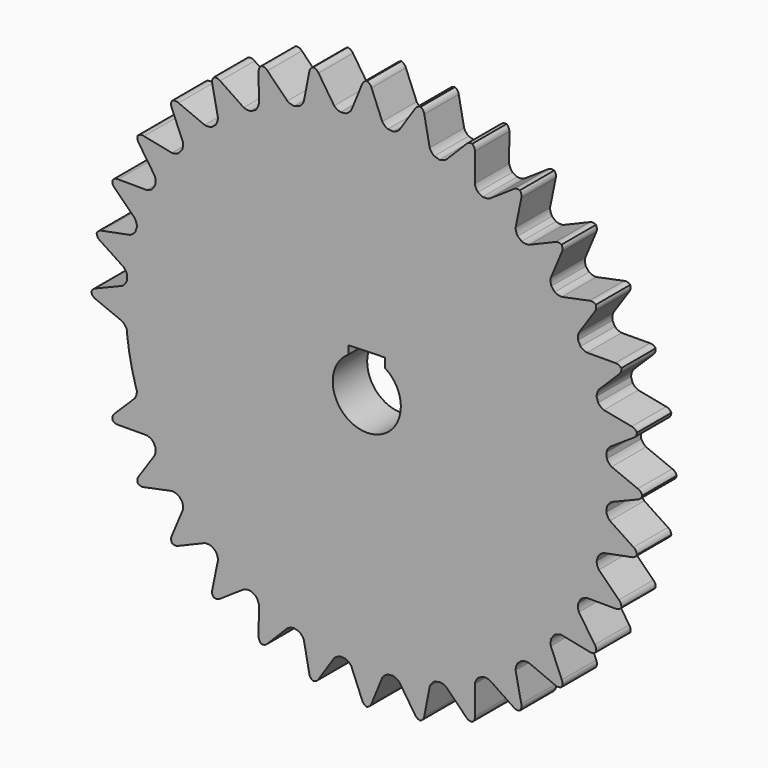
from build123d import *

# Parameters (mm, degrees)
F1_DEPTH = 25
F3_DEPTH = 25


with BuildPart() as f1:
    # F0 (on Front) → F1 (new body)
    with BuildSketch(Plane.XZ):
        with BuildLine():
            ThreePointArc((15.241362, 139.167887), (13.7224, 139.325862), (12.201804, 139.467258))
            ThreePointArc((12.201804, 139.467258), (0, 140), (-12.201804, 139.467258))
            ThreePointArc((-12.201804, 139.467258), (-13.7224, 139.325862), (-15.241362, 139.167887))
            ThreePointArc((-15.241362, 139.167887), (-17.22437, 139.942358), (-18.926763, 141.220633))
            Line((-18.926763, 141.220633), (-28.013776, 154.950709))
            ThreePointArc((-28.013776, 154.950709), (-29.359509, 156.350802), (-31.214452, 156.925645))
            ThreePointArc((-31.214452, 156.925645), (-32.708212, 155.684703), (-33.415715, 153.876196))
            Line((-33.415715, 153.876196), (-36.556748, 137.713811))
            ThreePointArc((-36.556748, 137.713811), (-37.640379, 135.881362), (-39.176062, 134.40698))
            ThreePointArc((-39.176062, 134.40698), (-40.639855, 133.971647), (-42.098812, 133.520373))
            ThreePointArc((-42.098812, 133.520373), (-53.575681, 129.343135), (-64.644806, 124.181517))
            ThreePointArc((-64.644806, 124.181517), (-65.995543, 123.468977), (-67.338428, 122.741746))
            ThreePointArc((-67.338428, 122.741746), (-77.779833, 116.405746), (-87.629286, 109.183828))
            ThreePointArc((-87.629286, 109.183828), (-88.81506, 108.221463), (-89.990265, 107.246222))
            ThreePointArc((-89.990265, 107.246222), (-98.994949, 98.994949), (-107.246222, 89.990265))
            ThreePointArc((-107.246222, 89.990265), (-108.221463, 88.81506), (-109.183828, 87.629286))
            ThreePointArc((-109.183828, 87.629286), (-116.405746, 77.779833), (-122.741746, 67.338428))
            ThreePointArc((-122.741746, 67.338428), (-123.468977, 65.995543), (-124.181517, 64.644806))
            ThreePointArc((-124.181517, 64.644806), (-129.343135, 53.575681), (-133.520373, 42.098812))
            ThreePointArc((-133.520373, 42.098812), (-133.971647, 40.639855), (-134.40698, 39.176062))
            ThreePointArc((-134.40698, 39.176062), (-137.309939, 27.312645), (-139.167887, 15.241362))
            ThreePointArc((-139.167887, 15.241362), (-139.325862, 13.7224), (-139.467258, 12.201804))
            ThreePointArc((-139.467258, 12.201804), (-140, 0), (-139.467258, -12.201804))
            ThreePointArc((-139.467258, -12.201804), (-139.325862, -13.7224), (-139.167887, -15.241362))
            ThreePointArc((-139.167887, -15.241362), (-137.309939, -27.312645), (-134.40698, -39.176062))
            ThreePointArc((-134.40698, -39.176062), (-133.971647, -40.639855), (-133.520373, -42.098812))
            ThreePointArc((-133.520373, -42.098812), (-129.343135, -53.575681), (-124.181517, -64.644806))
            ThreePointArc((-124.181517, -64.644806), (-123.468977, -65.995543), (-122.741746, -67.338428))
            ThreePointArc((-122.741746, -67.338428), (-116.405746, -77.779833), (-109.183828, -87.629286))
            ThreePointArc((-109.183828, -87.629286), (-108.221463, -88.81506), (-107.246222, -89.990265))
            ThreePointArc((-107.246222, -89.990265), (-98.994949, -98.994949), (-89.990265, -107.246222))
            ThreePointArc((-89.990265, -107.246222), (-88.81506, -108.221463), (-87.629286, -109.183828))
            ThreePointArc((-87.629286, -109.183828), (-77.779833, -116.405746), (-67.338428, -122.741746))
            ThreePointArc((-67.338428, -122.741746), (-65.995543, -123.468977), (-64.644806, -124.181517))
            ThreePointArc((-64.644806, -124.181517), (-53.575681, -129.343135), (-42.098812, -133.520373))
            ThreePointArc((-42.098812, -133.520373), (-40.639855, -133.971647), (-39.176062, -134.40698))
            ThreePointArc((-39.176062, -134.40698), (-27.312645, -137.309939), (-15.241362, -139.167887))
            ThreePointArc((-15.241362, -139.167887), (-13.7224, -139.325862), (-12.201804, -139.467258))
            ThreePointArc((-12.201804, -139.467258), (0, -140), (12.201804, -139.467258))
            ThreePointArc((12.201804, -139.467258), (13.7224, -139.325862), (15.241362, -139.167887))
            ThreePointArc((15.241362, -139.167887), (27.312645, -137.309939), (39.176062, -134.40698))
            ThreePointArc((39.176062, -134.40698), (40.639855, -133.971647), (42.098812, -133.520373))
            ThreePointArc((42.098812, -133.520373), (53.575681, -129.343135), (64.644806, -124.181517))
            ThreePointArc((64.644806, -124.181517), (65.995543, -123.468977), (67.338428, -122.741746))
            ThreePointArc((67.338428, -122.741746), (77.779833, -116.405746), (87.629286, -109.183828))
            ThreePointArc((87.629286, -109.183828), (88.81506, -108.221463), (89.990265, -107.246222))
            ThreePointArc((89.990265, -107.246222), (98.994949, -98.994949), (107.246222, -89.990265))
            ThreePointArc((107.246222, -89.990265), (108.221463, -88.81506), (109.183828, -87.629286))
            ThreePointArc((109.183828, -87.629286), (116.405746, -77.779833), (122.741746, -67.338428))
            ThreePointArc((122.741746, -67.338428), (123.468977, -65.995543), (124.181517, -64.644806))
            ThreePointArc((124.181517, -64.644806), (129.343135, -53.575681), (133.520373, -42.098812))
            ThreePointArc((133.520373, -42.098812), (133.971647, -40.639855), (134.40698, -39.176062))
            ThreePointArc((134.40698, -39.176062), (137.309939, -27.312645), (139.167887, -15.241362))
            ThreePointArc((139.167887, -15.241362), (139.325862, -13.7224), (139.467258, -12.201804))
            ThreePointArc((139.467258, -12.201804), (140, 0), (139.467258, 12.201804))
            ThreePointArc((139.467258, 12.201804), (139.325862, 13.7224), (139.167887, 15.241362))
            ThreePointArc((139.167887, 15.241362), (137.309939, 27.312645), (134.40698, 39.176062))
            ThreePointArc((134.40698, 39.176062), (133.971647, 40.639855), (133.520373, 42.098812))
            ThreePointArc((133.520373, 42.098812), (129.343135, 53.575681), (124.181517, 64.644806))
            ThreePointArc((124.181517, 64.644806), (123.468977, 65.995543), (122.741746, 67.338428))
            ThreePointArc((122.741746, 67.338428), (116.405746, 77.779833), (109.183828, 87.629286))
            ThreePointArc((109.183828, 87.629286), (108.221463, 88.81506), (107.246222, 89.990265))
            ThreePointArc((107.246222, 89.990265), (98.994949, 98.994949), (89.990265, 107.246222))
            ThreePointArc((89.990265, 107.246222), (88.81506, 108.221463), (87.629286, 109.183828))
            ThreePointArc((87.629286, 109.183828), (77.779833, 116.405746), (67.338428, 122.741746))
            ThreePointArc((67.338428, 122.741746), (65.995543, 123.468977), (64.644806, 124.181517))
            ThreePointArc((64.644806, 124.181517), (53.575681, 129.343135), (42.098812, 133.520373))
            ThreePointArc((42.098812, 133.520373), (40.639855, 133.971647), (39.176062, 134.40698))
            ThreePointArc((39.176062, 134.40698), (37.640379, 135.881362), (36.556748, 137.713811))
            Line((36.556748, 137.713811), (33.415715, 153.876196))
            ThreePointArc((33.415715, 153.876196), (32.708212, 155.684703), (31.214452, 156.925645))
            ThreePointArc((31.214452, 156.925645), (29.359509, 156.350802), (28.013776, 154.950709))
            Line((28.013776, 154.950709), (18.926763, 141.220633))
            ThreePointArc((18.926763, 141.220633), (17.22437, 139.942358), (15.241362, 139.167887))
        make_face()
        with BuildLine():
            ThreePointArc((-12.201804, 139.467258), (0, 140), (12.201804, 139.467258))
            ThreePointArc((12.201804, 139.467258), (10.407991, 140.613713), (8.987688, 142.199546))
            Line((8.987688, 142.199546), (2.753885, 157.438591))
            ThreePointArc((2.753885, 157.438591), (1.707154, 159.074321), (0, 160))
            ThreePointArc((0, 160), (-1.707154, 159.074321), (-2.753885, 157.438591))
            Line((-2.753885, 157.438591), (-8.987688, 142.199546))
            ThreePointArc((-8.987688, 142.199546), (-10.407991, 140.613713), (-12.201804, 139.467258))
        make_face()
        with BuildLine():
            ThreePointArc((46.113869, 134.81469), (44.194809, 133.893097), (42.098812, 133.520373))
            ThreePointArc((42.098812, 133.520373), (53.575681, 129.343135), (64.644806, 124.181517))
            ThreePointArc((64.644806, 124.181517), (63.426268, 125.927166), (62.720952, 127.935811))
            Line((62.720952, 127.935811), (62.793398, 144.400426))
            ThreePointArc((62.793398, 144.400426), (62.452312, 146.31221), (61.229349, 147.820725))
            ThreePointArc((61.229349, 147.820725), (59.297902, 147.618809), (57.704882, 146.508158))
            Line((57.704882, 146.508158), (46.113869, 134.81469))
        make_face()
        with BuildLine():
            ThreePointArc((-64.644806, 124.181517), (-53.575681, 129.343135), (-42.098812, 133.520373))
            ThreePointArc((-42.098812, 133.520373), (-44.194809, 133.893097), (-46.113869, 134.81469))
            Line((-46.113869, 134.81469), (-57.704882, 146.508158))
            ThreePointArc((-57.704882, 146.508158), (-59.297902, 147.618809), (-61.229349, 147.820725))
            ThreePointArc((-61.229349, 147.820725), (-62.452312, 146.31221), (-62.793398, 144.400426))
            Line((-62.793398, 144.400426), (-62.720952, 127.935811))
            ThreePointArc((-62.720952, 127.935811), (-63.426268, 125.927166), (-64.644806, 124.181517))
        make_face()
        with BuildLine():
            ThreePointArc((71.528845, 123.227894), (69.466865, 122.6984), (67.338428, 122.741746))
            ThreePointArc((67.338428, 122.741746), (77.779833, 116.405746), (87.629286, 109.183828))
            ThreePointArc((87.629286, 109.183828), (86.774722, 111.13366), (86.474825, 113.241309))
            Line((86.474825, 113.241309), (89.757966, 129.375428))
            ThreePointArc((89.757966, 129.375428), (89.796405, 131.31702), (88.891237, 133.035138))
            ThreePointArc((88.891237, 133.035138), (86.957511, 133.213908), (85.178423, 132.435381))
            Line((85.178423, 132.435381), (71.528845, 123.227894))
        make_face()
        with BuildLine():
            ThreePointArc((-87.629286, 109.183828), (-77.779833, 116.405746), (-67.338428, 122.741746))
            ThreePointArc((-67.338428, 122.741746), (-69.466865, 122.6984), (-71.528845, 123.227894))
            Line((-71.528845, 123.227894), (-85.178423, 132.435381))
            ThreePointArc((-85.178423, 132.435381), (-86.957511, 133.213908), (-88.891237, 133.035138))
            ThreePointArc((-88.891237, 133.035138), (-89.796405, 131.31702), (-89.757966, 129.375428))
            Line((-89.757966, 129.375428), (-86.474825, 113.241309))
            ThreePointArc((-86.474825, 113.241309), (-86.774722, 111.13366), (-87.629286, 109.183828))
        make_face()
        with BuildLine():
            ThreePointArc((94.195008, 106.905519), (92.069349, 106.788471), (89.990265, 107.246222))
            ThreePointArc((89.990265, 107.246222), (98.994949, 98.994949), (107.246222, 89.990265))
            ThreePointArc((107.246222, 89.990265), (106.788471, 92.069349), (106.905519, 94.195008))
            Line((106.905519, 94.195008), (113.273186, 109.378605))
            ThreePointArc((113.273186, 109.378605), (113.689672, 111.275391), (113.137085, 113.137085))
            ThreePointArc((113.137085, 113.137085), (111.275391, 113.689672), (109.378605, 113.273186))
            Line((109.378605, 113.273186), (94.195008, 106.905519))
        make_face()
        with BuildLine():
            ThreePointArc((-107.246222, 89.990265), (-98.994949, 98.994949), (-89.990265, 107.246222))
            ThreePointArc((-89.990265, 107.246222), (-92.069349, 106.788471), (-94.195008, 106.905519))
            Line((-94.195008, 106.905519), (-109.378605, 113.273186))
            ThreePointArc((-109.378605, 113.273186), (-111.275391, 113.689672), (-113.137085, 113.137085))
            ThreePointArc((-113.137085, 113.137085), (-113.689672, 111.275391), (-113.273186, 109.378605))
            Line((-113.273186, 109.378605), (-106.905519, 94.195008))
            ThreePointArc((-106.905519, 94.195008), (-106.788471, 92.069349), (-107.246222, 89.990265))
        make_face()
        with BuildLine():
            ThreePointArc((113.241309, 86.474825), (111.13366, 86.774722), (109.183828, 87.629286))
            ThreePointArc((109.183828, 87.629286), (116.405746, 77.779833), (122.741746, 67.338428))
            ThreePointArc((122.741746, 67.338428), (122.6984, 69.466865), (123.227894, 71.528845))
            Line((123.227894, 71.528845), (132.435381, 85.178423))
            ThreePointArc((132.435381, 85.178423), (133.213908, 86.957511), (133.035138, 88.891237))
            ThreePointArc((133.035138, 88.891237), (131.31702, 89.796405), (129.375428, 89.757966))
            Line((129.375428, 89.757966), (113.241309, 86.474825))
        make_face()
        with BuildLine():
            ThreePointArc((-122.741746, 67.338428), (-116.405746, 77.779833), (-109.183828, 87.629286))
            ThreePointArc((-109.183828, 87.629286), (-111.13366, 86.774722), (-113.241309, 86.474825))
            Line((-113.241309, 86.474825), (-129.375428, 89.757966))
            ThreePointArc((-129.375428, 89.757966), (-131.31702, 89.796405), (-133.035138, 88.891237))
            ThreePointArc((-133.035138, 88.891237), (-133.213908, 86.957511), (-132.435381, 85.178423))
            Line((-132.435381, 85.178423), (-123.227894, 71.528845))
            ThreePointArc((-123.227894, 71.528845), (-122.6984, 69.466865), (-122.741746, 67.338428))
        make_face()
        with BuildLine():
            ThreePointArc((127.935811, 62.720952), (125.927166, 63.426268), (124.181517, 64.644806))
            ThreePointArc((124.181517, 64.644806), (129.343135, 53.575681), (133.520373, 42.098812))
            ThreePointArc((133.520373, 42.098812), (133.893097, 44.194809), (134.81469, 46.113869))
            Line((134.81469, 46.113869), (146.508158, 57.704882))
            ThreePointArc((146.508158, 57.704882), (147.618809, 59.297902), (147.820725, 61.229349))
            ThreePointArc((147.820725, 61.229349), (146.31221, 62.452312), (144.400426, 62.793398))
            Line((144.400426, 62.793398), (127.935811, 62.720952))
        make_face()
        with BuildLine():
            ThreePointArc((-133.520373, 42.098812), (-129.343135, 53.575681), (-124.181517, 64.644806))
            ThreePointArc((-124.181517, 64.644806), (-125.927166, 63.426268), (-127.935811, 62.720952))
            Line((-127.935811, 62.720952), (-144.400426, 62.793398))
            ThreePointArc((-144.400426, 62.793398), (-146.31221, 62.452312), (-147.820725, 61.229349))
            ThreePointArc((-147.820725, 61.229349), (-147.618809, 59.297902), (-146.508158, 57.704882))
            Line((-146.508158, 57.704882), (-134.81469, 46.113869))
            ThreePointArc((-134.81469, 46.113869), (-133.893097, 44.194809), (-133.520373, 42.098812))
        make_face()
        with BuildLine():
            ThreePointArc((137.713811, 36.556748), (135.881362, 37.640379), (134.40698, 39.176062))
            ThreePointArc((134.40698, 39.176062), (137.309939, 27.312645), (139.167887, 15.241362))
            ThreePointArc((139.167887, 15.241362), (139.942358, 17.22437), (141.220633, 18.926763))
            Line((141.220633, 18.926763), (154.950709, 28.013776))
            ThreePointArc((154.950709, 28.013776), (156.350802, 29.359509), (156.925645, 31.214452))
            ThreePointArc((156.925645, 31.214452), (155.684703, 32.708212), (153.876196, 33.415715))
            Line((153.876196, 33.415715), (137.713811, 36.556748))
        make_face()
        with BuildLine():
            ThreePointArc((-139.167887, 15.241362), (-137.309939, 27.312645), (-134.40698, 39.176062))
            ThreePointArc((-134.40698, 39.176062), (-135.881362, 37.640379), (-137.713811, 36.556748))
            Line((-137.713811, 36.556748), (-153.876196, 33.415715))
            ThreePointArc((-153.876196, 33.415715), (-155.684703, 32.708212), (-156.925645, 31.214452))
            ThreePointArc((-156.925645, 31.214452), (-156.350802, 29.359509), (-154.950709, 28.013776))
            Line((-154.950709, 28.013776), (-141.220633, 18.926763))
            ThreePointArc((-141.220633, 18.926763), (-139.942358, 17.22437), (-139.167887, 15.241362))
        make_face()
        with BuildLine():
            ThreePointArc((142.199546, 8.987688), (140.613713, 10.407991), (139.467258, 12.201804))
            ThreePointArc((139.467258, 12.201804), (140, 0), (139.467258, -12.201804))
            ThreePointArc((139.467258, -12.201804), (140.613713, -10.407991), (142.199546, -8.987688))
            Line((142.199546, -8.987688), (157.438591, -2.753885))
            ThreePointArc((157.438591, -2.753885), (159.074321, -1.707154), (160, 0))
            ThreePointArc((160, 0), (159.074321, 1.707154), (157.438591, 2.753885))
            Line((157.438591, 2.753885), (142.199546, 8.987688))
        make_face()
        with BuildLine():
            ThreePointArc((-139.467258, -12.201804), (-140, 0), (-139.467258, 12.201804))
            ThreePointArc((-139.467258, 12.201804), (-140.613713, 10.407991), (-142.199546, 8.987688))
            Line((-142.199546, 8.987688), (-157.438591, 2.753885))
            ThreePointArc((-157.438591, 2.753885), (-159.074321, 1.707154), (-160, 0))
            ThreePointArc((-160, 0), (-159.074321, -1.707154), (-157.438591, -2.753885))
            Line((-157.438591, -2.753885), (-142.199546, -8.987688))
            ThreePointArc((-142.199546, -8.987688), (-140.613713, -10.407991), (-139.467258, -12.201804))
        make_face()
        with BuildLine():
            ThreePointArc((141.220633, -18.926763), (139.942358, -17.22437), (139.167887, -15.241362))
            ThreePointArc((139.167887, -15.241362), (137.309939, -27.312645), (134.40698, -39.176062))
            ThreePointArc((134.40698, -39.176062), (135.881362, -37.640379), (137.713811, -36.556748))
            Line((137.713811, -36.556748), (153.876196, -33.415715))
            ThreePointArc((153.876196, -33.415715), (155.684703, -32.708212), (156.925645, -31.214452))
            ThreePointArc((156.925645, -31.214452), (156.350802, -29.359509), (154.950709, -28.013776))
            Line((154.950709, -28.013776), (141.220633, -18.926763))
        make_face()
        with BuildLine():
            ThreePointArc((134.81469, -46.113869), (133.893097, -44.194809), (133.520373, -42.098812))
            ThreePointArc((133.520373, -42.098812), (129.343135, -53.575681), (124.181517, -64.644806))
            ThreePointArc((124.181517, -64.644806), (125.927166, -63.426268), (127.935811, -62.720952))
            Line((127.935811, -62.720952), (144.400426, -62.793398))
            ThreePointArc((144.400426, -62.793398), (146.31221, -62.452312), (147.820725, -61.229349))
            ThreePointArc((147.820725, -61.229349), (147.618809, -59.297902), (146.508158, -57.704882))
            Line((146.508158, -57.704882), (134.81469, -46.113869))
        make_face()
        with BuildLine():
            ThreePointArc((-124.181517, -64.644806), (-129.343135, -53.575681), (-133.520373, -42.098812))
            ThreePointArc((-133.520373, -42.098812), (-133.893097, -44.194809), (-134.81469, -46.113869))
            Line((-134.81469, -46.113869), (-146.508158, -57.704882))
            ThreePointArc((-146.508158, -57.704882), (-147.618809, -59.297902), (-147.820725, -61.229349))
            ThreePointArc((-147.820725, -61.229349), (-146.31221, -62.452312), (-144.400426, -62.793398))
            Line((-144.400426, -62.793398), (-127.935811, -62.720952))
            ThreePointArc((-127.935811, -62.720952), (-125.927166, -63.426268), (-124.181517, -64.644806))
        make_face()
        with BuildLine():
            ThreePointArc((123.227894, -71.528845), (122.6984, -69.466865), (122.741746, -67.338428))
            ThreePointArc((122.741746, -67.338428), (116.405746, -77.779833), (109.183828, -87.629286))
            ThreePointArc((109.183828, -87.629286), (111.13366, -86.774722), (113.241309, -86.474825))
            Line((113.241309, -86.474825), (129.375428, -89.757966))
            ThreePointArc((129.375428, -89.757966), (131.31702, -89.796405), (133.035138, -88.891237))
            ThreePointArc((133.035138, -88.891237), (133.213908, -86.957511), (132.435381, -85.178423))
            Line((132.435381, -85.178423), (123.227894, -71.528845))
        make_face()
        with BuildLine():
            ThreePointArc((-109.183828, -87.629286), (-116.405746, -77.779833), (-122.741746, -67.338428))
            ThreePointArc((-122.741746, -67.338428), (-122.6984, -69.466865), (-123.227894, -71.528845))
            Line((-123.227894, -71.528845), (-132.435381, -85.178423))
            ThreePointArc((-132.435381, -85.178423), (-133.213908, -86.957511), (-133.035138, -88.891237))
            ThreePointArc((-133.035138, -88.891237), (-131.31702, -89.796405), (-129.375428, -89.757966))
            Line((-129.375428, -89.757966), (-113.241309, -86.474825))
            ThreePointArc((-113.241309, -86.474825), (-111.13366, -86.774722), (-109.183828, -87.629286))
        make_face()
        with BuildLine():
            ThreePointArc((106.905519, -94.195008), (106.788471, -92.069349), (107.246222, -89.990265))
            ThreePointArc((107.246222, -89.990265), (98.994949, -98.994949), (89.990265, -107.246222))
            ThreePointArc((89.990265, -107.246222), (92.069349, -106.788471), (94.195008, -106.905519))
            Line((94.195008, -106.905519), (109.378605, -113.273186))
            ThreePointArc((109.378605, -113.273186), (111.275391, -113.689672), (113.137085, -113.137085))
            ThreePointArc((113.137085, -113.137085), (113.689672, -111.275391), (113.273186, -109.378605))
            Line((113.273186, -109.378605), (106.905519, -94.195008))
        make_face()
        with BuildLine():
            ThreePointArc((-89.990265, -107.246222), (-98.994949, -98.994949), (-107.246222, -89.990265))
            ThreePointArc((-107.246222, -89.990265), (-106.788471, -92.069349), (-106.905519, -94.195008))
            Line((-106.905519, -94.195008), (-113.273186, -109.378605))
            ThreePointArc((-113.273186, -109.378605), (-113.689672, -111.275391), (-113.137085, -113.137085))
            ThreePointArc((-113.137085, -113.137085), (-111.275391, -113.689672), (-109.378605, -113.273186))
            Line((-109.378605, -113.273186), (-94.195008, -106.905519))
            ThreePointArc((-94.195008, -106.905519), (-92.069349, -106.788471), (-89.990265, -107.246222))
        make_face()
        with BuildLine():
            ThreePointArc((86.474825, -113.241309), (86.774722, -111.13366), (87.629286, -109.183828))
            ThreePointArc((87.629286, -109.183828), (77.779833, -116.405746), (67.338428, -122.741746))
            ThreePointArc((67.338428, -122.741746), (69.466865, -122.6984), (71.528845, -123.227894))
            Line((71.528845, -123.227894), (85.178423, -132.435381))
            ThreePointArc((85.178423, -132.435381), (86.957511, -133.213908), (88.891237, -133.035138))
            ThreePointArc((88.891237, -133.035138), (89.796405, -131.31702), (89.757966, -129.375428))
            Line((89.757966, -129.375428), (86.474825, -113.241309))
        make_face()
        with BuildLine():
            ThreePointArc((-67.338428, -122.741746), (-77.779833, -116.405746), (-87.629286, -109.183828))
            ThreePointArc((-87.629286, -109.183828), (-86.774722, -111.13366), (-86.474825, -113.241309))
            Line((-86.474825, -113.241309), (-89.757966, -129.375428))
            ThreePointArc((-89.757966, -129.375428), (-89.796405, -131.31702), (-88.891237, -133.035138))
            ThreePointArc((-88.891237, -133.035138), (-86.957511, -133.213908), (-85.178423, -132.435381))
            Line((-85.178423, -132.435381), (-71.528845, -123.227894))
            ThreePointArc((-71.528845, -123.227894), (-69.466865, -122.6984), (-67.338428, -122.741746))
        make_face()
        with BuildLine():
            ThreePointArc((62.720952, -127.935811), (63.426268, -125.927166), (64.644806, -124.181517))
            ThreePointArc((64.644806, -124.181517), (53.575681, -129.343135), (42.098812, -133.520373))
            ThreePointArc((42.098812, -133.520373), (44.194809, -133.893097), (46.113869, -134.81469))
            Line((46.113869, -134.81469), (57.704882, -146.508158))
            ThreePointArc((57.704882, -146.508158), (59.297902, -147.618809), (61.229349, -147.820725))
            ThreePointArc((61.229349, -147.820725), (62.452312, -146.31221), (62.793398, -144.400426))
            Line((62.793398, -144.400426), (62.720952, -127.935811))
        make_face()
        with BuildLine():
            ThreePointArc((-42.098812, -133.520373), (-53.575681, -129.343135), (-64.644806, -124.181517))
            ThreePointArc((-64.644806, -124.181517), (-63.426268, -125.927166), (-62.720952, -127.935811))
            Line((-62.720952, -127.935811), (-62.793398, -144.400426))
            ThreePointArc((-62.793398, -144.400426), (-62.452312, -146.31221), (-61.229349, -147.820725))
            ThreePointArc((-61.229349, -147.820725), (-59.297902, -147.618809), (-57.704882, -146.508158))
            Line((-57.704882, -146.508158), (-46.113869, -134.81469))
            ThreePointArc((-46.113869, -134.81469), (-44.194809, -133.893097), (-42.098812, -133.520373))
        make_face()
        with BuildLine():
            ThreePointArc((36.556748, -137.713811), (37.640379, -135.881362), (39.176062, -134.40698))
            ThreePointArc((39.176062, -134.40698), (27.312645, -137.309939), (15.241362, -139.167887))
            ThreePointArc((15.241362, -139.167887), (17.22437, -139.942358), (18.926763, -141.220633))
            Line((18.926763, -141.220633), (28.013776, -154.950709))
            ThreePointArc((28.013776, -154.950709), (29.359509, -156.350802), (31.214452, -156.925645))
            ThreePointArc((31.214452, -156.925645), (32.708212, -155.684703), (33.415715, -153.876196))
            Line((33.415715, -153.876196), (36.556748, -137.713811))
        make_face()
        with BuildLine():
            ThreePointArc((-15.241362, -139.167887), (-27.312645, -137.309939), (-39.176062, -134.40698))
            ThreePointArc((-39.176062, -134.40698), (-37.640379, -135.881362), (-36.556748, -137.713811))
            Line((-36.556748, -137.713811), (-33.415715, -153.876196))
            ThreePointArc((-33.415715, -153.876196), (-32.708212, -155.684703), (-31.214452, -156.925645))
            ThreePointArc((-31.214452, -156.925645), (-29.359509, -156.350802), (-28.013776, -154.950709))
            Line((-28.013776, -154.950709), (-18.926763, -141.220633))
            ThreePointArc((-18.926763, -141.220633), (-17.22437, -139.942358), (-15.241362, -139.167887))
        make_face()
        with BuildLine():
            ThreePointArc((8.987688, -142.199546), (10.407991, -140.613713), (12.201804, -139.467258))
            ThreePointArc((12.201804, -139.467258), (0, -140), (-12.201804, -139.467258))
            ThreePointArc((-12.201804, -139.467258), (-10.407991, -140.613713), (-8.987688, -142.199546))
            Line((-8.987688, -142.199546), (-2.753885, -157.438591))
            ThreePointArc((-2.753885, -157.438591), (-1.707154, -159.074321), (0, -160))
            ThreePointArc((0, -160), (1.707154, -159.074321), (2.753885, -157.438591))
            Line((2.753885, -157.438591), (8.987688, -142.199546))
        make_face()
    extrude(amount=F1_DEPTH)

    # F2 (on face) → F3 (cut)
    with BuildSketch(Plane(origin=(0, 0, 0), x_dir=(-1, 0, 0), z_dir=(0, 1, 0))):
        with BuildLine():
            Line((-10.695853, 22.077888), (-10.695853, 16.637318))
            ThreePointArc((-10.695853, 16.637318), (0, -19.778818), (10.695853, 16.637318))
            Line((10.695853, 16.637318), (10.695853, 21.400481))
            Line((10.695853, 21.400481), (-10.695853, 22.077888))
        make_face()
    extrude(amount=-F3_DEPTH, mode=Mode.SUBTRACT)


solid = f1.part
